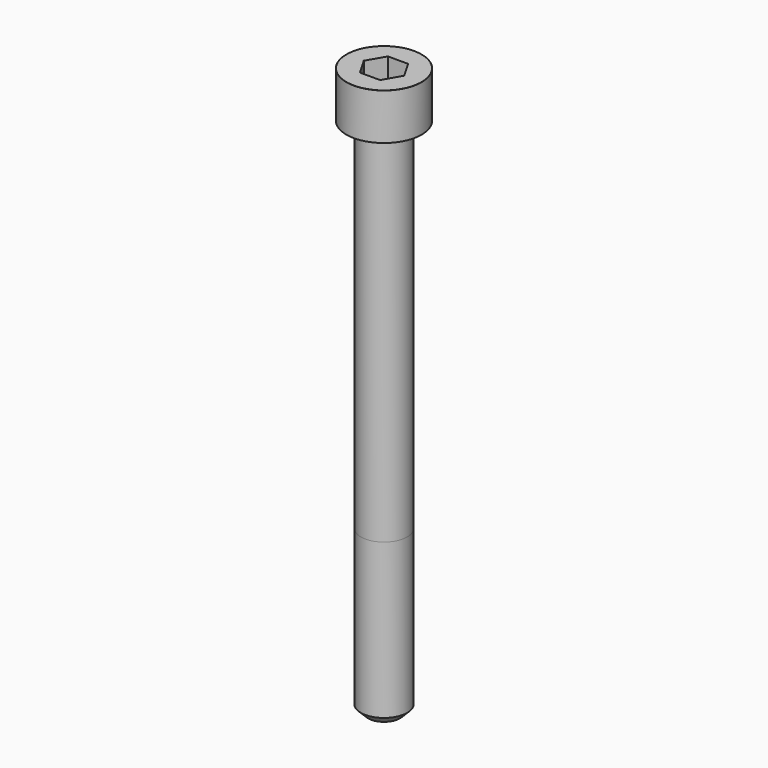
from build123d import *

# Parameters (mm, degrees)
POCKET_DEPTH = 6.06


with BuildPart() as part:
    # Sketch → Revolve (revolve)
    with BuildSketch(Plane.YZ):
        with BuildLine():
            Line((3.999, 0), (6.5, 0))
            Line((6.5, 0), (6.5, 7.97229))
            ThreePointArc((6.5, 7.97229), (6.491884, 7.991884), (6.47229, 8))
            Line((6.47229, 8), (0, 8))
            Line((0, -90), (0, 8))
            Line((2.75, -90), (0, -90))
            Line((4, -88.75), (2.75, -90))
            Line((4, -62), (4, -88.75))
            Line((3.999, 0), (4, -62))
        make_face()
    revolve(axis=Axis((0, 0, 0), (0, 0, 1)))

    # Sketch001 → Pocket (cut)
    with BuildSketch(Plane.XY.offset(8)):
        Polygon((3.498743, 0), (1.749371, 3.03), (-1.749371, 3.03), (-3.498743, 0), (-1.749371, -3.03), (1.749371, -3.03), align=None)
    extrude(amount=-POCKET_DEPTH, mode=Mode.SUBTRACT)


solid = part.part
